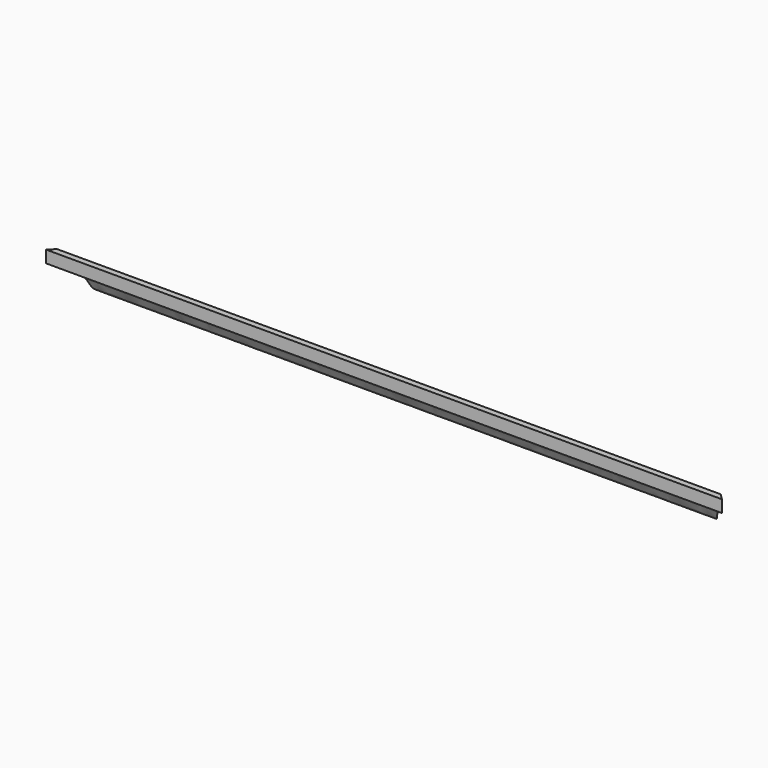
from build123d import *

# Parameters (mm, degrees)
F1_DEPTH = 1447.8
F3_DEPTH = 127
F5_DEPTH = 127


with BuildPart() as f1:
    # F0 (on Right) → F1 (new body)
    with BuildSketch(Plane.YZ):
        with BuildLine():
            add(Edge.make_bspline(
                [(-98.7884248642, 73.3734816313), (-87.1823684526, 69.5461370455), (-65.2644929938, 62.3182502427), (-49.8033739198, 38.5451340065), (-43.6622822427, 15.8219402802), (-20.2437994586, 18.7685438503), (-13.297879309, 4.7891906519), (-4.43709461, 1.5980060831), (0, 0)],
                knots=[0, 0, 0, 0, 0.2156928292, 0.4073328959, 0.5715827781, 0.7299633327, 0.8647774117, 1, 1, 1, 1], degree=3))
            Line((0, 0), (0, 12.7))
            Line((0, 12.7), (-86.0884248642, 98.7884248642))
            Line((-86.0884248642, 98.7884248642), (-98.7884248642, 98.7884248642))
            Line((-98.7884248642, 98.7884248642), (-98.7884248642, 73.3734816313))
        make_face()
    extrude(amount=F1_DEPTH)

    # F2 (on Top) → F3 (cut)
    with BuildSketch(Plane.XY):
        Polygon((101.6, 0), (0, 0), (0, -101.6), align=None)
    extrude(amount=F3_DEPTH, mode=Mode.SUBTRACT)

    # F4 (on Top) → F5 (cut)
    with BuildSketch(Plane.XY):
        Polygon((1542.4486112665, 0), (1320.8, 0), (1542.4486112665, -221.6486112665), align=None)
    extrude(amount=F5_DEPTH, mode=Mode.SUBTRACT)


solid = f1.part
